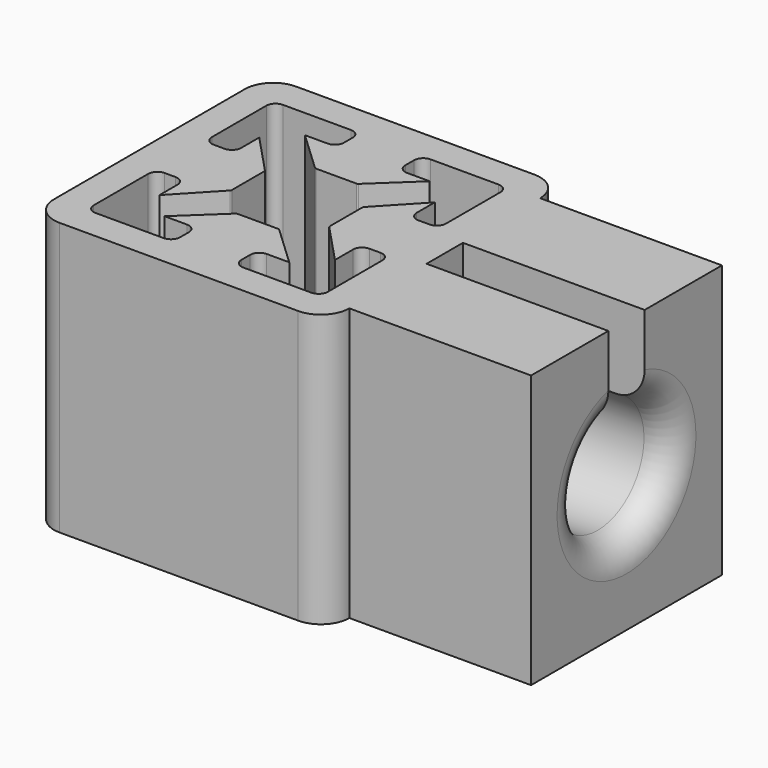
from build123d import *

# Parameters (mm, degrees)
F1_DEPTH = 6
F3_DEPTH = 10
F5_DEPTH = 8
F6_R     = 1.27


with BuildPart() as f1:
    # F0 (on Top) → F1 (new body, symmetric)
    with BuildSketch(Plane.XY):
        with BuildLine():
            Line((6.5, -5.25), (6.5, 5.25))
            ThreePointArc((6.5, 5.25), (6.133883, 6.133883), (5.25, 6.5))
            Line((5.25, 6.5), (-5.25, 6.5))
            ThreePointArc((-5.25, 6.5), (-6.133883, 6.133883), (-6.5, 5.25))
            Line((-6.5, 5.25), (-6.5, -5.25))
            ThreePointArc((-6.5, -5.25), (-6.133883, -6.133883), (-5.25, -6.5))
            Line((-5.25, -6.5), (5.25, -6.5))
            ThreePointArc((5.25, -6.5), (6.133883, -6.133883), (6.5, -5.25))
        make_face()
    extrude(amount=F1_DEPTH, both=True)

    # F2 (on Top) → F3 (cut, symmetric)
    with BuildSketch(Plane.XY):
        with BuildLine():
            ThreePointArc((0.889914, -2.1566), (0.928239, -2.163918), (0.961171, -2.184843))
            Line((0.961171, -2.184843), (2.745753, -3.863205))
            Line((2.745753, -3.863205), (1.752595, -3.863205))
            ThreePointArc((1.752595, -3.863205), (1.466924, -3.981534), (1.348595, -4.267205))
            Line((1.348595, -4.267205), (1.348595, -4.749805))
            ThreePointArc((1.348595, -4.749805), (1.466924, -5.035476), (1.752595, -5.153805))
            Line((1.752595, -5.153805), (4.749795, -5.153805))
            ThreePointArc((4.749795, -5.153805), (5.035466, -5.035476), (5.153795, -4.749805))
            Line((5.153795, -4.749805), (5.153795, -1.752605))
            ThreePointArc((5.153795, -1.752605), (5.035471, -1.466932), (4.749802, -1.348599))
            Line((4.749802, -1.348599), (4.267202, -1.348599))
            ThreePointArc((4.267202, -1.348599), (3.981531, -1.466927), (3.863202, -1.752599))
            Line((3.863202, -1.752599), (3.863202, -2.745756))
            Line((3.863202, -2.745756), (2.184831, -0.961164))
            ThreePointArc((2.184831, -0.961164), (2.163912, -0.928237), (2.156595, -0.889919))
            Line((2.156595, -0.889919), (2.156595, 0.889909))
            ThreePointArc((2.156595, 0.889909), (2.163912, 0.928229), (2.184834, 0.961157))
            Line((2.184834, 0.961157), (3.863202, 2.745746))
            Line((3.863202, 2.745746), (3.863202, 1.752589))
            ThreePointArc((3.863202, 1.752589), (3.981531, 1.466917), (4.267202, 1.348589))
            Line((4.267202, 1.348589), (4.749802, 1.348589))
            ThreePointArc((4.749802, 1.348589), (5.035473, 1.466917), (5.153802, 1.752589))
            Line((5.153802, 1.752589), (5.153802, 4.749789))
            ThreePointArc((5.153802, 4.749789), (5.035477, 5.035475), (4.749794, 5.153807))
            Line((4.749794, 5.153807), (1.752594, 5.153807))
            ThreePointArc((1.752594, 5.153807), (1.466922, 5.035478), (1.348594, 4.749807))
            Line((1.348594, 4.749807), (1.348594, 4.267207))
            ThreePointArc((1.348594, 4.267207), (1.466922, 3.981536), (1.752594, 3.863207))
            Line((1.752594, 3.863207), (2.745751, 3.863207))
            Line((2.745751, 3.863207), (0.961159, 2.184836))
            ThreePointArc((0.961159, 2.184836), (0.928232, 2.163916), (0.889914, 2.1566))
            Line((0.889914, 2.1566), (-0.889914, 2.1566))
            ThreePointArc((-0.889914, 2.1566), (-0.928238, 2.163918), (-0.961169, 2.184841))
            Line((-0.961169, 2.184841), (-2.745757, 3.863209))
            Line((-2.745757, 3.863209), (-1.7526, 3.863209))
            ThreePointArc((-1.7526, 3.863209), (-1.466929, 3.981538), (-1.3486, 4.267209))
            Line((-1.3486, 4.267209), (-1.3486, 4.749809))
            ThreePointArc((-1.3486, 4.749809), (-1.466937, 5.035473), (-1.752607, 5.153794))
            Line((-1.752607, 5.153794), (-4.749807, 5.153794))
            ThreePointArc((-4.749807, 5.153794), (-5.035478, 5.035465), (-5.153807, 4.749794))
            Line((-5.153807, 4.749794), (-5.153807, 1.752594))
            ThreePointArc((-5.153807, 1.752594), (-5.035478, 1.466922), (-4.749807, 1.348594))
            Line((-4.749807, 1.348594), (-4.267207, 1.348594))
            ThreePointArc((-4.267207, 1.348594), (-3.981536, 1.466922), (-3.863207, 1.752594))
            Line((-3.863207, 1.752594), (-3.863207, 2.745751))
            Line((-3.863207, 2.745751), (-2.184836, 0.961159))
            ThreePointArc((-2.184836, 0.961159), (-2.163916, 0.928232), (-2.1566, 0.889914))
            Line((-2.1566, 0.889914), (-2.1566, -0.889914))
            ThreePointArc((-2.1566, -0.889914), (-2.163918, -0.928238), (-2.184841, -0.961169))
            Line((-2.184841, -0.961169), (-3.863209, -2.745757))
            Line((-3.863209, -2.745757), (-3.863209, -1.7526))
            ThreePointArc((-3.863209, -1.7526), (-3.981538, -1.466929), (-4.267209, -1.3486))
            Line((-4.267209, -1.3486), (-4.749809, -1.3486))
            ThreePointArc((-4.749809, -1.3486), (-5.035481, -1.466929), (-5.153809, -1.7526))
            Line((-5.153809, -1.7526), (-5.153809, -4.7498))
            ThreePointArc((-5.153809, -4.7498), (-5.035481, -5.035471), (-4.749809, -5.1538))
            Line((-4.749809, -5.1538), (-1.752609, -5.1538))
            ThreePointArc((-1.752609, -5.1538), (-1.466938, -5.035471), (-1.348609, -4.7498))
            Line((-1.348609, -4.7498), (-1.348609, -4.2672))
            ThreePointArc((-1.348609, -4.2672), (-1.466935, -3.981539), (-1.752594, -3.863207))
            Line((-1.752594, -3.863207), (-2.745751, -3.863207))
            Line((-2.745751, -3.863207), (-0.961159, -2.184836))
            ThreePointArc((-0.961159, -2.184836), (-0.928232, -2.163916), (-0.889914, -2.1566))
            Line((-0.889914, -2.1566), (0.889914, -2.1566))
        make_face()
    extrude(amount=F3_DEPTH, both=True, mode=Mode.SUBTRACT)

    # F4 (on face) → F5 (join)
    with BuildSketch(Plane.YZ.offset(6.5)):
        with BuildLine():
            ThreePointArc((1, 2.345741), (0, -2.55), (-1, 2.345741))
            Line((-1, 2.345741), (-1, 6))
            Line((-1, 6), (-5.25, 6))
            Line((-5.25, 6), (-5.25, -6))
            Line((-5.25, -6), (5.25, -6))
            Line((5.25, -6), (5.25, 6))
            Line((5.25, 6), (1, 6))
            Line((1, 6), (1, 2.345741))
        make_face()
    extrude(amount=F5_DEPTH)

    # F6
    f6_edges = [f1.edges().sort_by_distance(p)[0] for p in [
        (14.5, 0, -2.55),
    ]]
    fillet(f6_edges, radius=F6_R)


solid = f1.part
